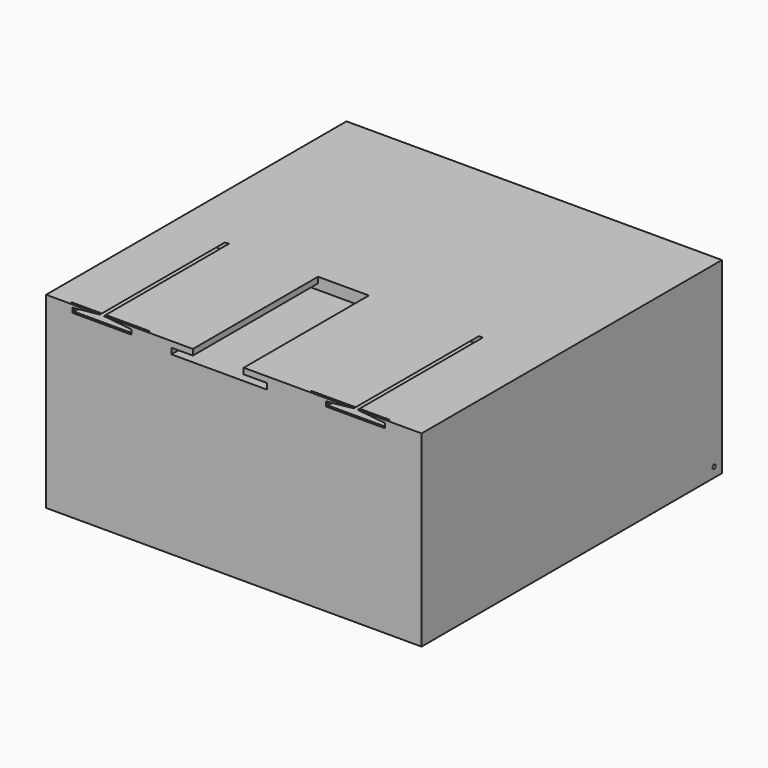
from build123d import *

# Parameters (mm, degrees)
F0_W     = 609.6
F0_H     = 609.6
F1_DEPTH = 304.8
F2_R     = 3.175
F3_DEPTH = 609.6
F5_DEPTH = 50.8
F7_DEPTH = 254
F8_W     = 127
F8_H     = 1.5291
F9_DEPTH = 25.4


with BuildPart() as f1:
    # F0 (on Top) → F1 (new body)
    with BuildSketch(Plane.XY):
        with Locations((8.20379, 40.765707)):
            Rectangle(F0_W, F0_H)
    extrude(amount=F1_DEPTH)

    # F2 (on face) → F3 (cut)
    with BuildSketch(Plane(origin=(-296.59621, 0, 0), x_dir=(0, -1, 0), z_dir=(-1, 0, 0))):
        with Locations((-329.690707, 15.875)):
            Circle(F2_R)
    extrude(amount=-F3_DEPTH, mode=Mode.SUBTRACT)

    # F4 (on face) → F5 (cut)
    with BuildSketch(Plane(origin=(-296.59621, 0, 0), x_dir=(0, -1, 0), z_dir=(-1, 0, 0))):
        with BuildLine():
            Line((143.384293, 19.05), (-301.115707, 19.05))
            ThreePointArc((-301.115707, 19.05), (-304.290707, 15.875), (-301.115707, 12.7))
            Line((-301.115707, 12.7), (143.384293, 12.7))
            ThreePointArc((143.384293, 12.7), (146.559293, 15.875), (143.384293, 19.05))
        make_face()
    extrude(amount=-F5_DEPTH, mode=Mode.SUBTRACT)

    # F6 (on face) → F7 (cut)
    with BuildSketch(Plane.XZ.offset(264.034293)):
        Polygon((254.007536, 300.3042), (209.278136, 304.8), (202.877336, 304.8), (158.147936, 300.3042), (158.147936, 292.7858), (254.007536, 292.7858), align=None)
        Polygon((-254.007536, 292.7858), (-158.147936, 292.7858), (-158.147936, 300.3042), (-202.877336, 304.8), (-209.278136, 304.8), (-254.007536, 300.3042), align=None)
        Polygon((24.286199, 295.275), (24.286199, 304.8), (-58.270179, 304.8), (-58.270179, 295.275), (-93.115404, 295.275), (-93.115404, 285.75), (62.347908, 285.75), (62.347908, 295.275), align=None)
    extrude(amount=-F7_DEPTH, mode=Mode.SUBTRACT)

    # F8 (on face) → F9 (cut)
    with BuildSketch(Plane.XY.offset(304.8)):
        with Locations((-194.99621, -260.882653)):
            Rectangle(F8_W, F8_H)
        with Locations((194.99621, -260.882653)):
            Rectangle(F8_W, F8_H)
    extrude(amount=-F9_DEPTH, mode=Mode.SUBTRACT)


solid = f1.part
